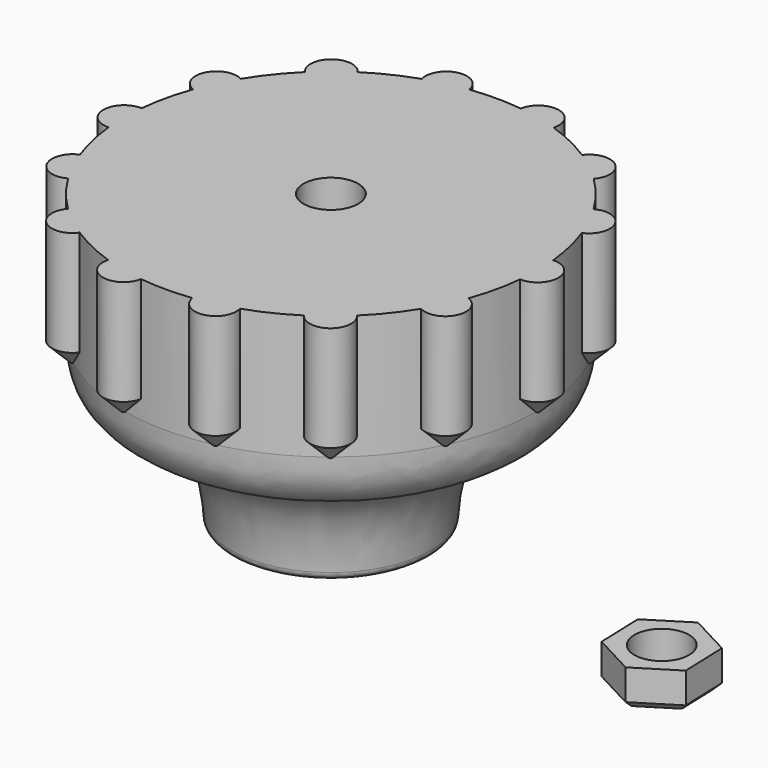
from build123d import *

# Parameters (mm, degrees)
F2_R      = 3.3
F3_DEPTH  = 35
F5_DEPTH  = 10
F7_DEPTH  = 15
F8_SIZE   = 2.25
F9_R      = 1
F10_R     = 3.3
F11_DEPTH = 4.5
F12_SIZE  = 0.8


with BuildPart() as f1:
    # F0 (on Front) → F1 (revolve)
    with BuildSketch(Plane.XZ):
        with BuildLine():
            Line((-12, -19.710862), (0, -19.710862))
            Line((0, -19.710862), (0, 15.289138))
            Line((0, 15.289138), (-25, 15.289138))
            Line((-25, 15.289138), (-25, 0.289138))
            add(Edge.make_bspline(
                [(-25, 0.289138), (-25, -11.191443), (-12.351065, -2.294615), (-12, -19.710862)],
                knots=[0, 0, 0, 0, 23.853721, 23.853721, 23.853721, 23.853721], degree=3))
        make_face()
    revolve(axis=Axis((0, 0, 0.602359), (0, 0, -1)))

    # F2 (on face) → F3 (cut, through all)
    with BuildSketch(Plane(origin=(0, 0, -19.710862), x_dir=(1, 0, 0), z_dir=(0, 0, -1))):
        Circle(F2_R)
    extrude(amount=-F3_DEPTH, mode=Mode.SUBTRACT)

    # F4 (on face) → F5 (cut)
    with BuildSketch(Plane(origin=(0, 0, -19.710862), x_dir=(1, 0, 0), z_dir=(0, 0, -1))):
        Polygon((3.415683, -4.654722), (5.73895, 0.630708), (2.323266, 5.28543), (-3.415683, 4.654722), (-5.73895, -0.630708), (-2.323266, -5.28543), align=None)
    extrude(amount=-F5_DEPTH, mode=Mode.SUBTRACT)

    # F6 (on face) → F7 (join)
    with BuildSketch(Plane.XY.offset(15.289138)):
        with BuildLine():
            ThreePointArc((-24.875, -2.496873), (-25, 0), (-24.875, 2.496873))
            ThreePointArc((-24.875, 2.496873), (-27.5, 0), (-24.875, -2.496873))
        make_face()
        with BuildLine():
            ThreePointArc((-21.328248, -13.042463), (-22.524222, -10.847093), (-23.494953, -8.543253))
            ThreePointArc((-23.494953, -8.543253), (-24.776644, -11.931803), (-21.328248, -13.042463))
        make_face()
        with BuildLine():
            ThreePointArc((-13.557175, -21.004833), (-15.587245, -19.545787), (-17.461443, -17.891283))
            ThreePointArc((-17.461443, -17.891283), (-17.14597, -21.500366), (-13.557175, -21.004833))
        make_face()
        with BuildLine():
            ThreePointArc((-3.100937, -24.806938), (-5.563023, -24.373198), (-7.969479, -23.695725))
            ThreePointArc((-7.969479, -23.695725), (-6.119326, -26.810518), (-3.100937, -24.806938))
        make_face()
        with BuildLine():
            ThreePointArc((7.969479, -23.695725), (5.563023, -24.373198), (3.100937, -24.806938))
            ThreePointArc((3.100937, -24.806938), (6.119326, -26.810518), (7.969479, -23.695725))
        make_face()
        with BuildLine():
            ThreePointArc((17.461443, -17.891283), (15.587245, -19.545787), (13.557175, -21.004833))
            ThreePointArc((13.557175, -21.004833), (17.14597, -21.500366), (17.461443, -17.891283))
        make_face()
        with BuildLine():
            ThreePointArc((23.494953, -8.543253), (22.524222, -10.847093), (21.328248, -13.042463))
            ThreePointArc((21.328248, -13.042463), (24.776644, -11.931803), (23.494953, -8.543253))
        make_face()
        with BuildLine():
            ThreePointArc((24.875, 2.496873), (25, 0), (24.875, -2.496873))
            ThreePointArc((24.875, -2.496873), (27.5, 0), (24.875, 2.496873))
        make_face()
        with BuildLine():
            ThreePointArc((21.328248, 13.042463), (22.524222, 10.847093), (23.494953, 8.543253))
            ThreePointArc((23.494953, 8.543253), (24.776644, 11.931803), (21.328248, 13.042463))
        make_face()
        with BuildLine():
            ThreePointArc((13.557175, 21.004833), (15.587245, 19.545787), (17.461443, 17.891283))
            ThreePointArc((17.461443, 17.891283), (17.14597, 21.500366), (13.557175, 21.004833))
        make_face()
        with BuildLine():
            ThreePointArc((3.100937, 24.806938), (5.563023, 24.373198), (7.969479, 23.695725))
            ThreePointArc((7.969479, 23.695725), (6.119326, 26.810518), (3.100937, 24.806938))
        make_face()
        with BuildLine():
            ThreePointArc((-7.969479, 23.695725), (-5.563023, 24.373198), (-3.100937, 24.806938))
            ThreePointArc((-3.100937, 24.806938), (-6.119326, 26.810518), (-7.969479, 23.695725))
        make_face()
        with BuildLine():
            ThreePointArc((-17.461443, 17.891283), (-15.587245, 19.545787), (-13.557175, 21.004833))
            ThreePointArc((-13.557175, 21.004833), (-17.14597, 21.500366), (-17.461443, 17.891283))
        make_face()
        with BuildLine():
            ThreePointArc((-23.494953, 8.543253), (-22.524222, 10.847093), (-21.328248, 13.042463))
            ThreePointArc((-21.328248, 13.042463), (-24.776644, 11.931803), (-23.494953, 8.543253))
        make_face()
    extrude(amount=-F7_DEPTH)

    # F8
    f8_edges = [f1.edges().sort_by_distance(p)[0] for p in [
        (-27.5, 0, 0.289138),
        (-24.776644, 11.931803, 0.289138),
        (-17.14597, 21.500366, 0.289138),
        (-6.119326, 26.810518, 0.289138),
        (6.119326, 26.810518, 0.289138),
        (17.14597, 21.500366, 0.289138),
        (24.776644, 11.931803, 0.289138),
        (27.5, 0, 0.289138),
        (24.776644, -11.931803, 0.289138),
        (17.14597, -21.500366, 0.289138),
        (6.119326, -26.810518, 0.289138),
        (-6.119326, -26.810518, 0.289138),
        (-17.14597, -21.500366, 0.289138),
        (-24.776644, -11.931803, 0.289138),
    ]]
    chamfer(f8_edges, length=F8_SIZE)

    # F9
    f9_edges = [f1.edges().sort_by_distance(p)[0] for p in [
        (12, 0, -19.710862),
    ]]
    fillet(f9_edges, radius=F9_R)


with BuildPart() as f11:
    # F10 (on face) → F11 (new body)
    with BuildSketch(Plane(origin=(0, 0, -19.710862), x_dir=(1, 0, 0), z_dir=(0, 0, -1))):
        Polygon((40.198043, 5.712336), (35.151994, 3.027678), (34.953951, -2.684657), (39.801957, -5.712336), (44.848006, -3.027678), (45.046049, 2.684657), align=None)
        with Locations((40, 0)):
            Circle(F10_R, mode=Mode.SUBTRACT)
    extrude(amount=F11_DEPTH)

    # F12
    f12_edges = [f11.edges().sort_by_distance(p)[0] for p in [
        (42.622046, -4.198497, -24.210862),
        (44.947028, 0.17151, -24.210862),
        (42.324982, 4.370007, -24.210862),
        (37.377954, 4.198497, -24.210862),
        (35.052972, -0.17151, -24.210862),
        (37.675018, -4.370007, -24.210862),
    ]]
    chamfer(f12_edges, length=F12_SIZE)


solid = Compound([f1.part, f11.part])
